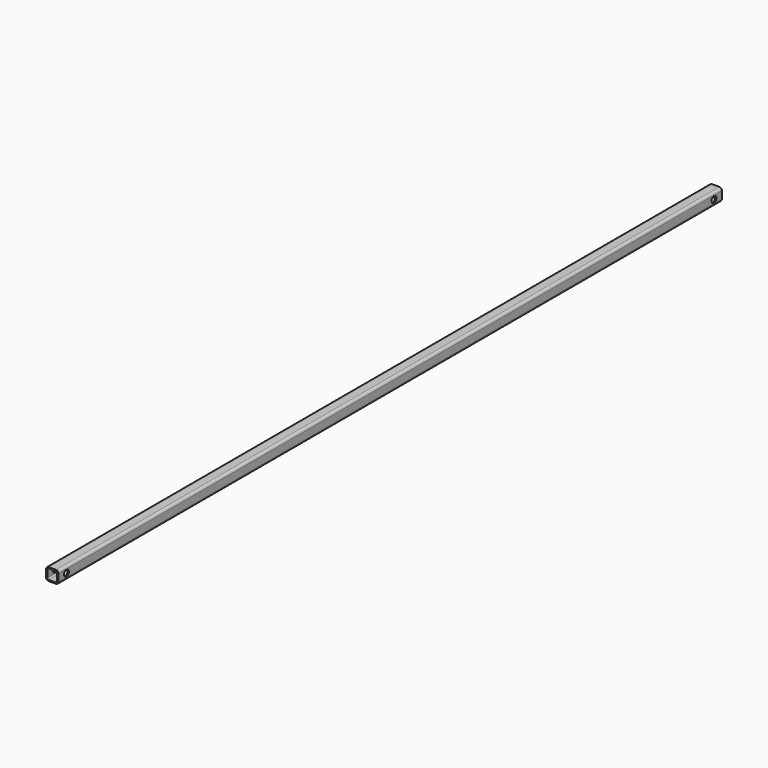
from build123d import *

# Parameters (mm, degrees)
F1_DEPTH = 836
F2_R     = 6.25
F3_DEPTH = 25.001


with BuildPart() as f1:
    # F0 (on Front) → F1 (new body, symmetric)
    with BuildSketch(Plane.XZ):
        with BuildLine():
            ThreePointArc((12.5, 7.5), (11.035534, 11.035534), (7.5, 12.5))
            Line((7.5, 12.5), (-7.5, 12.5))
            ThreePointArc((-7.5, 12.5), (-11.035534, 11.035534), (-12.5, 7.5))
            Line((-12.5, 7.5), (-12.5, -7.5))
            ThreePointArc((-12.5, -7.5), (-11.035534, -11.035534), (-7.5, -12.5))
            Line((-7.5, -12.5), (7.5, -12.5))
            ThreePointArc((7.5, -12.5), (11.035534, -11.035534), (12.5, -7.5))
            Line((12.5, -7.5), (12.5, 7.5))
        make_face()
        with BuildLine():
            Line((-7.5, 10), (7.5, 10))
            ThreePointArc((7.5, 10), (9.267767, 9.267767), (10, 7.5))
            Line((10, 7.5), (10, -7.5))
            ThreePointArc((10, -7.5), (9.267767, -9.267767), (7.5, -10))
            Line((7.5, -10), (-7.5, -10))
            ThreePointArc((-7.5, -10), (-9.267767, -9.267767), (-10, -7.5))
            Line((-10, -7.5), (-10, 7.5))
            ThreePointArc((-10, 7.5), (-9.267767, 9.267767), (-7.5, 10))
        make_face(mode=Mode.SUBTRACT)
    extrude(amount=F1_DEPTH, both=True)

    # F2 (on face) → F3 (cut, through all)
    with BuildSketch(Plane.YZ.offset(12.5)):
        with Locations((-816, 0)):
            Circle(F2_R)
        with Locations((816, 0)):
            Circle(F2_R)
    extrude(amount=-F3_DEPTH, mode=Mode.SUBTRACT)


solid = f1.part
